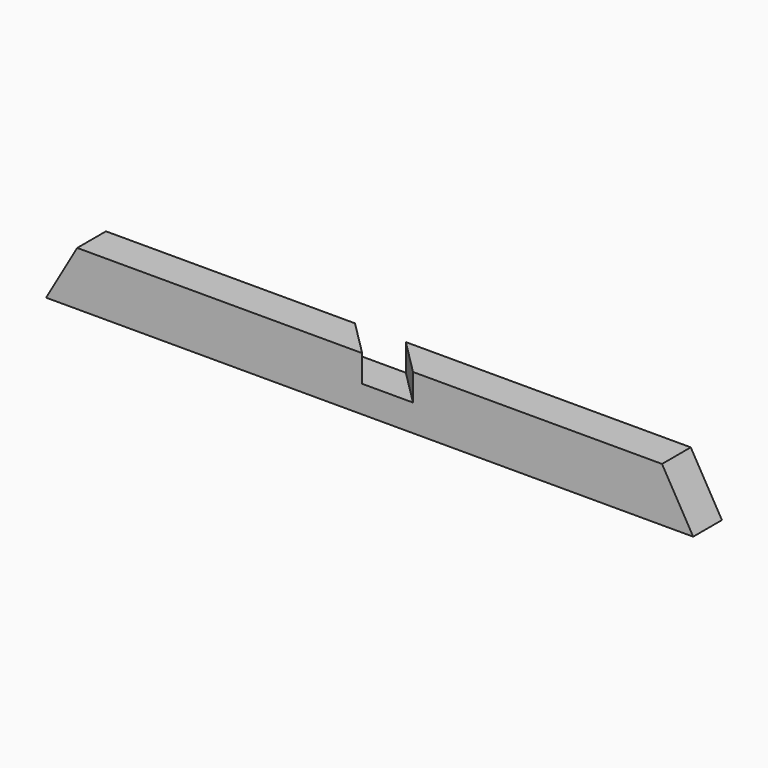
from build123d import *

# Parameters (mm, degrees)
F1_DEPTH = 25.4
F3_DEPTH = 19.05


with BuildPart() as f1:
    # F0 (on Front) → F1 (new body)
    with BuildSketch(Plane.XZ):
        Polygon((21.997045, 38.1), (0, 0), (457.2, 0), (435.202955, 38.1), align=None)
    extrude(amount=F1_DEPTH)

    # F2 (on face) → F3 (cut)
    with BuildSketch(Plane.XY.offset(38.1)):
        Polygon((233.861157, 0), (197.940133, 0), (223.340133, -25.4), (259.261157, -25.4), align=None)
    extrude(amount=-F3_DEPTH, mode=Mode.SUBTRACT)


solid = f1.part
